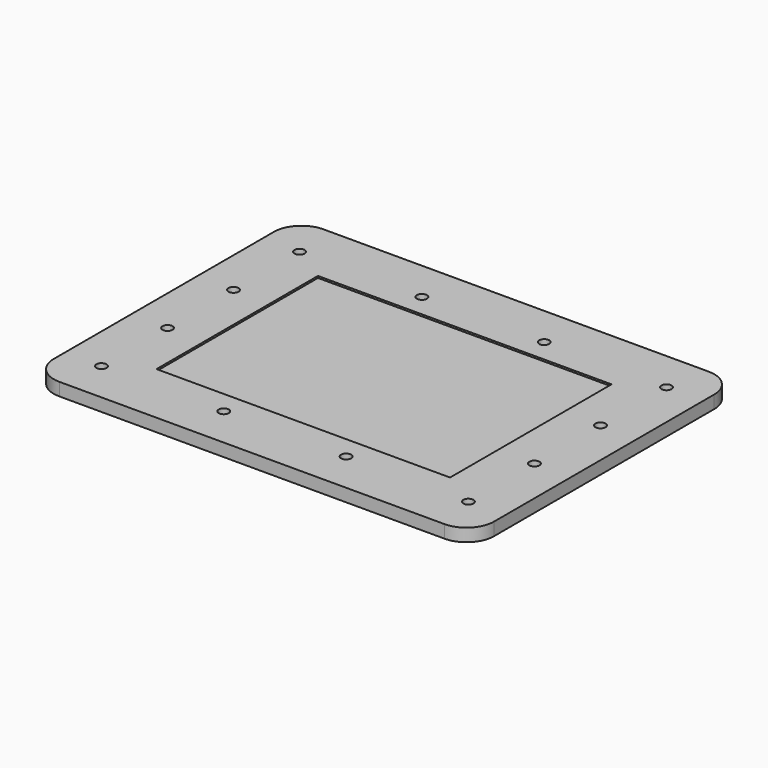
from build123d import *

# Parameters (mm, degrees)
SKETCH003_W         = 240
SKETCH003_H         = 180
PAD002_DEPTH        = 7
SKETCH004_R         = 2.75
POCKET_DEPTH        = 7.001
LINEARPATTERN_COUNT = 4
LINEARPATTERN_PITCH = 66.666667
SKETCH041_R         = 2.75
POCKET001_DEPTH     = 607.164311
SKETCH_W            = 160
SKETCH_H            = 110
POCKET002_DEPTH     = 1
FILLET_R            = 15


with BuildPart() as part:
    # Sketch003 → Pad002 (new body)
    with BuildSketch(Plane.XY):
        Rectangle(SKETCH003_W, SKETCH003_H)
    extrude(amount=PAD002_DEPTH)

    # Sketch004 (on Face6 of Pad002) → Pocket (cut, through all)
    with BuildSketch(Plane.XY.offset(7)):
        with Locations((-100, 67.5)):
            Circle(SKETCH004_R)
        with Locations((-100, -67.5)):
            Circle(SKETCH004_R)
    pocket = extrude(amount=-POCKET_DEPTH, mode=Mode.SUBTRACT)

    # LinearPattern: Pocket ×4
    with Locations(*[(i * LINEARPATTERN_PITCH, 0, 0) for i in range(1, LINEARPATTERN_COUNT)]):
        add(pocket, mode=Mode.SUBTRACT)

    # Sketch041 (on Face5 of LinearPattern) → Pocket001 (cut, through all)
    with BuildSketch(Plane.XY.offset(7)):
        with Locations((-100, 22.5)):
            Circle(SKETCH041_R)
        with Locations((-100, -22.5)):
            Circle(SKETCH041_R)
    pocket001 = extrude(amount=-POCKET001_DEPTH, mode=Mode.SUBTRACT)

    # Mirrored: Pocket001 across YZ
    add(pocket001.mirror(Plane.YZ), mode=Mode.SUBTRACT)

    # Sketch (on Face5 of Mirrored) → Pocket002 (cut)
    with BuildSketch(Plane.XY.offset(7)):
        Rectangle(SKETCH_W, SKETCH_H)
    extrude(amount=-POCKET002_DEPTH, mode=Mode.SUBTRACT)

    # Fillet
    fillet_edges = [part.edges().sort_by_distance(p)[0] for p in [
        (-120, -90, 3.5),
        (-120, 90, 3.5),
        (120, 90, 3.5),
        (120, -90, 3.5),
    ]]
    fillet(fillet_edges, radius=FILLET_R)


solid = part.part
